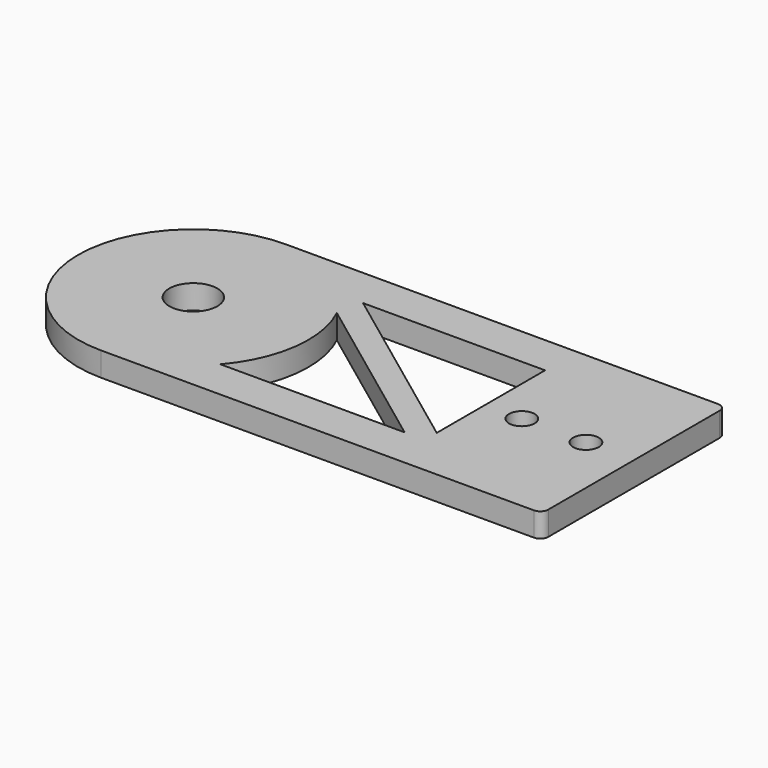
from build123d import *

# Parameters (mm, degrees)
F0_R     = 3
F0_R_2   = 1.6
F1_DEPTH = 3
F2_R     = 1


with BuildPart() as f1:
    # F0 (on Top) → F1 (new body)
    with BuildSketch(Plane.XY):
        with BuildLine():
            ThreePointArc((22.499999, 28.739418), (8.13029, 14.36971), (22.499997, 0))
            Line((22.499997, 0), (77.499997, 0))
            Line((77.499997, 0), (77.499999, 28.739418))
            Line((77.499999, 28.739418), (22.499999, 28.739418))
        make_face()
        with Locations((22.499999, 14.369709)):
            Circle(F0_R, mode=Mode.SUBTRACT)
        with BuildLine():
            Line((35.480354, 20.534036), (56.380585, 4.982745))
            Line((56.380585, 4.982745), (33.379955, 4.982745))
            ThreePointArc((33.379955, 4.982745), (36.740409, 12.446362), (35.480354, 20.534036))
        make_face(mode=Mode.SUBTRACT)
        with Locations((63.499998, 14.369709)):
            Circle(F0_R_2, mode=Mode.SUBTRACT)
        with Locations((71.499998, 14.369709)):
            Circle(F0_R_2, mode=Mode.SUBTRACT)
        Polygon((36.174804, 23.756673), (58.893349, 23.756673), (58.893349, 6.852424), align=None, mode=Mode.SUBTRACT)
    extrude(amount=F1_DEPTH)

    # F2
    f2_edges = [f1.edges().sort_by_distance(p)[0] for p in [
        (77.499997, 0, 1.5),
        (77.499999, 28.739418, 1.5),
    ]]
    fillet(f2_edges, radius=F2_R)


solid = f1.part
